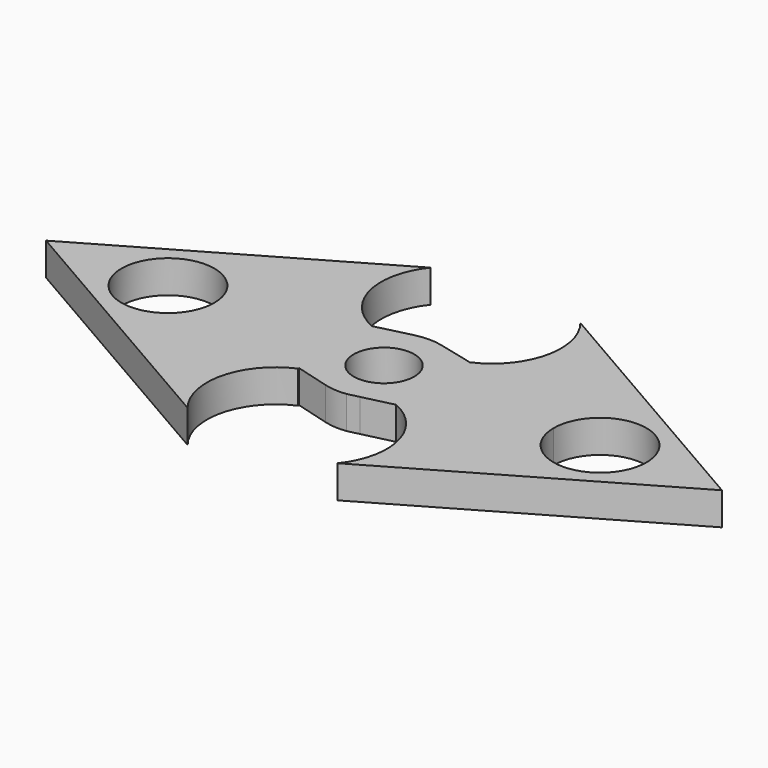
from build123d import *

# Parameters (mm, degrees)
F0_R     = 9.744375
F1_DEPTH = 6.858


with BuildPart() as f1:
    # F0 (on Top) → F1 (new body)
    with BuildSketch(Plane.XY):
        with BuildLine():
            Line((-10.271028, -9.6542), (-10.271028, -9.41727))
            Line((-10.271028, -9.41727), (-3.189457, -11.398748))
            ThreePointArc((-3.189457, -11.398748), (-0.855809, -11.805579), (1.512117, -11.739574))
            Line((1.512117, -11.739574), (3.940298, -11.161458))
            Line((3.940298, -11.161458), (10.271028, -9.6542))
            ThreePointArc((10.271028, -9.6542), (18.465013, -19.411145), (15.724788, -31.854236))
            Line((15.724788, -31.854236), (70.897943, 0))
            Line((70.897943, 0), (15.724788, 31.854236))
            ThreePointArc((15.724788, 31.854236), (18.465013, 19.411145), (10.271028, 9.6542))
            Line((10.271028, 9.6542), (2.839986, 11.490804))
            ThreePointArc((2.839986, 11.490804), (0, 11.836558), (-2.839986, 11.490804))
            Line((-2.839986, 11.490804), (-10.271028, 9.6542))
            ThreePointArc((-10.271028, 9.6542), (-18.465013, 19.411145), (-15.724788, 31.854236))
            Line((-15.724788, 31.854236), (-70.897943, 0))
            Line((-70.897943, 0), (-15.724788, -31.854236))
            ThreePointArc((-15.724788, -31.854236), (-18.465013, -19.411145), (-10.271028, -9.6542))
        make_face()
        with Locations((-45.329779, 0)):
            Circle(F0_R, mode=Mode.SUBTRACT)
        with BuildLine():
            ThreePointArc((-6.35, 0), (0, 6.35), (6.35, 0))
            ThreePointArc((6.35, 0), (0, -6.35), (-6.35, 0))
        make_face(mode=Mode.SUBTRACT)
        with BuildLine():
            ThreePointArc((55.074155, 0), (45.329779, -9.744375), (35.585404, 0))
            ThreePointArc((35.585404, 0), (45.329779, 9.744375), (55.074155, 0))
        make_face(mode=Mode.SUBTRACT)
    extrude(amount=F1_DEPTH)


solid = f1.part
